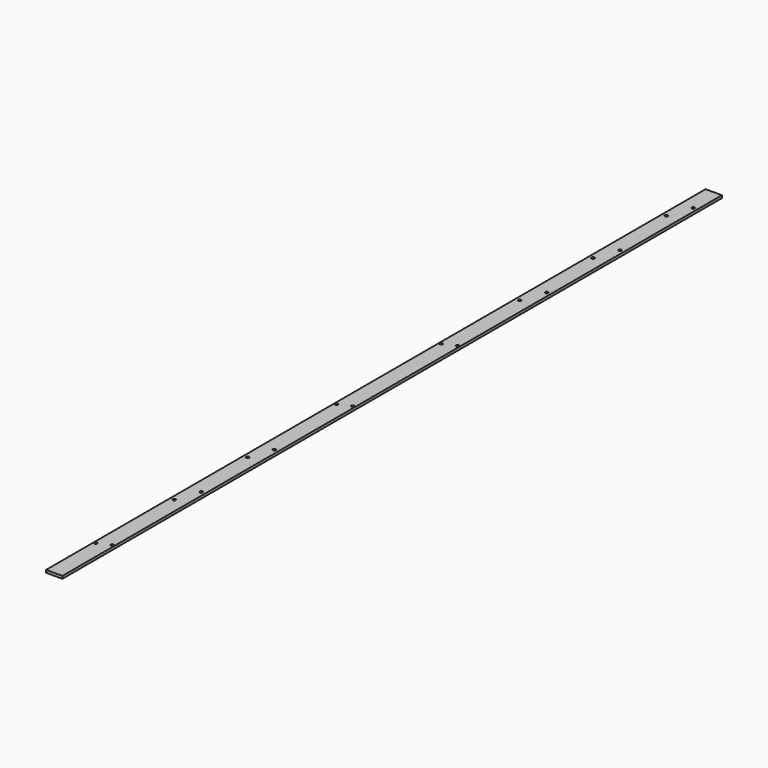
from build123d import *

# Parameters (mm, degrees)
F0_W     = 25
F0_H     = 1260
F0_R     = 2.25
F1_DEPTH = 4


with BuildPart() as f1:
    # F0 (on Top) → F1 (new body)
    with BuildSketch(Plane.XY):
        Rectangle(F0_W, F0_H)
        with Locations((-9.15, -539.16)):
            Circle(F0_R, mode=Mode.SUBTRACT)
        with Locations((-6.25, -392.82)):
            Circle(F0_R, mode=Mode.SUBTRACT)
        with Locations((-9.15, -79.16)):
            Circle(F0_R, mode=Mode.SUBTRACT)
        with Locations((-6.25, -252.82)):
            Circle(F0_R, mode=Mode.SUBTRACT)
        with Locations((9.15, -530.85)):
            Circle(F0_R, mode=Mode.SUBTRACT)
        with Locations((6.25, -357.17)):
            Circle(F0_R, mode=Mode.SUBTRACT)
        with Locations((6.25, -217.17)):
            Circle(F0_R, mode=Mode.SUBTRACT)
        with Locations((9.15, -70.85)):
            Circle(F0_R, mode=Mode.SUBTRACT)
        with Locations((-9.15, 120.84)):
            Circle(F0_R, mode=Mode.SUBTRACT)
        with Locations((-6.25, 267.18)):
            Circle(F0_R, mode=Mode.SUBTRACT)
        with Locations((-6.25, 407.18)):
            Circle(F0_R, mode=Mode.SUBTRACT)
        with Locations((-6.25, 547.18)):
            Circle(F0_R, mode=Mode.SUBTRACT)
        with Locations((9.15, 129.15)):
            Circle(F0_R, mode=Mode.SUBTRACT)
        with Locations((6.25, 302.83)):
            Circle(F0_R, mode=Mode.SUBTRACT)
        with Locations((6.25, 442.83)):
            Circle(F0_R, mode=Mode.SUBTRACT)
        with Locations((6.25, 582.83)):
            Circle(F0_R, mode=Mode.SUBTRACT)
    extrude(amount=F1_DEPTH)


solid = f1.part
